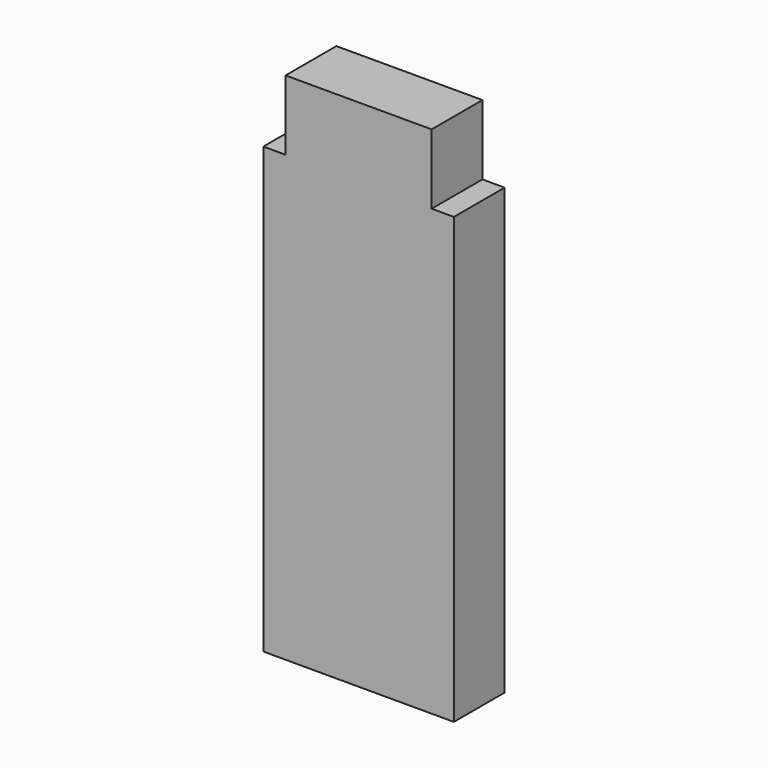
from build123d import *

# Parameters (mm, degrees)
F0_W     = 30
F0_H     = 10
F1_DEPTH = 70
F2_W     = 23
F2_H     = 10
F3_DEPTH = 8
F4_W     = 23
F4_H     = 10
F5_DEPTH = 3


with BuildPart() as f1:
    # F0 (on Top) → F1 (new body)
    with BuildSketch(Plane.XY):
        Rectangle(F0_W, F0_H)
    extrude(amount=F1_DEPTH)

    # F2 (on face) → F3 (join)
    with BuildSketch(Plane.XY.offset(70)):
        Rectangle(F2_W, F2_H)
    extrude(amount=F3_DEPTH)

    # F4 (on face) → F5 (join)
    with BuildSketch(Plane.XY.offset(78)):
        Rectangle(F4_W, F4_H)
    extrude(amount=F5_DEPTH)


solid = f1.part
